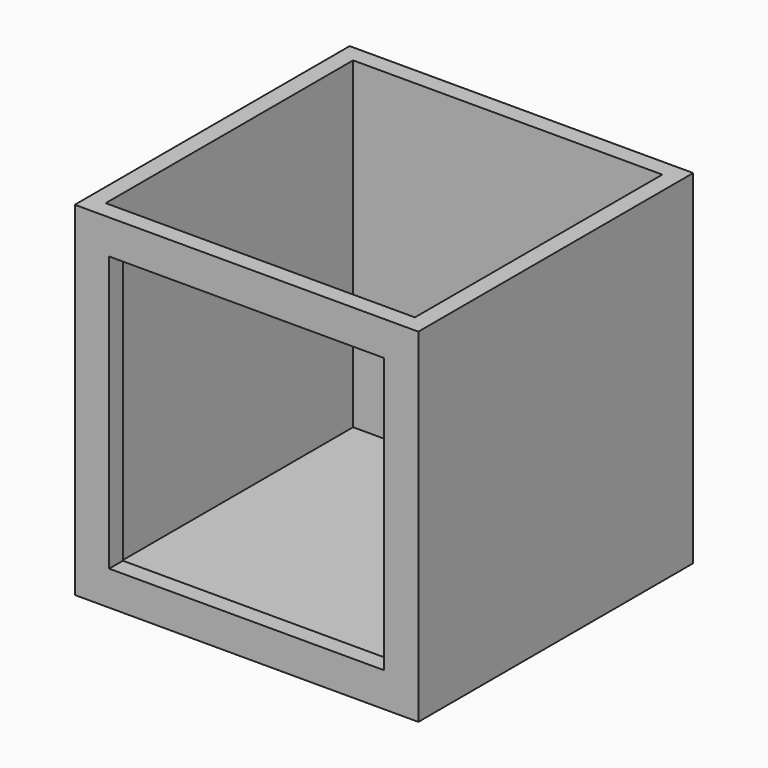
from build123d import *

# Parameters (mm, degrees)
F0_W     = 63.5
F0_H     = 63.5
F1_DEPTH = 63.5
F2_W     = 50.8
F2_H     = 50.8
F3_DEPTH = 57.15
F4_W     = 57.15
F4_H     = 57.15
F5_DEPTH = 59.69


with BuildPart() as f1:
    # F0 (on Top) → F1 (new body)
    with BuildSketch(Plane.XY):
        Rectangle(F0_W, F0_H)
    extrude(amount=F1_DEPTH)

    # F2 (on face) → F3 (cut)
    with BuildSketch(Plane.XZ.offset(31.75)):
        with Locations((0, 31.75)):
            Rectangle(F2_W, F2_H)
    extrude(amount=-F3_DEPTH, mode=Mode.SUBTRACT)

    # F4 (on face) → F5 (cut)
    with BuildSketch(Plane.XY.offset(63.5)):
        Rectangle(F4_W, F4_H)
    extrude(amount=-F5_DEPTH, mode=Mode.SUBTRACT)


solid = f1.part
